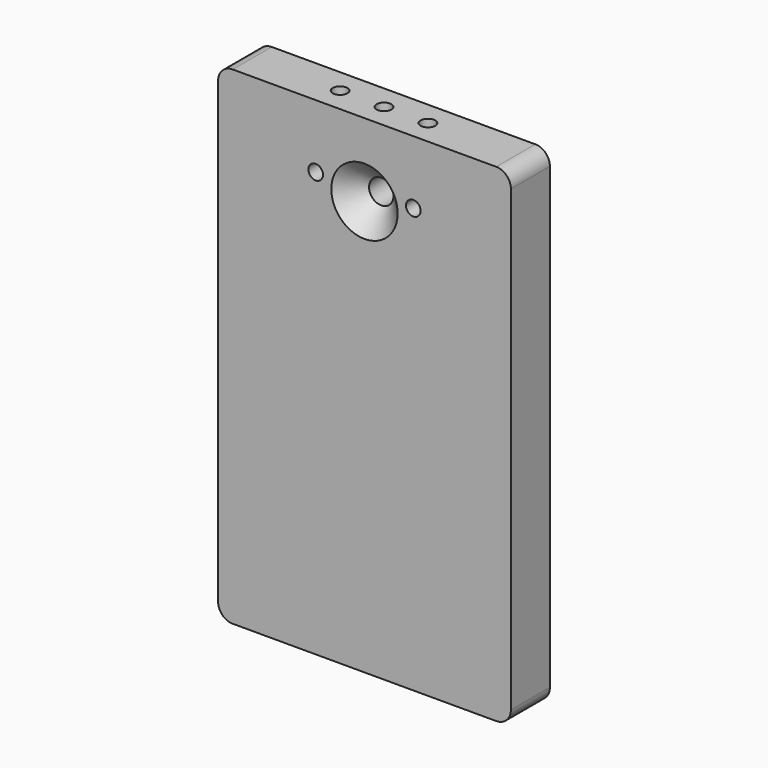
from build123d import *

# Parameters (mm, degrees)
F0_W     = 60
F0_H     = 100
F1_DEPTH = 10
F2_R     = 1.5
F3_DEPTH = 8
F4_R     = 1.5
F5_DEPTH = 10
F6_R     = 2.5
F7_DEPTH = 25
F8_SIZE  = 4.3
F9_R     = 3


with BuildPart() as f1:
    # F0 (on Front) → F1 (new body)
    with BuildSketch(Plane.XZ):
        Rectangle(F0_W, F0_H)
    extrude(amount=F1_DEPTH)

    # F2 (on face) → F3 (cut)
    with BuildSketch(Plane.XZ.offset(10)):
        with Locations((10, 37)):
            Circle(F2_R)
        with Locations((-10, 37)):
            Circle(F2_R)
    extrude(amount=-F3_DEPTH, mode=Mode.SUBTRACT)

    # F4 (on face) → F5 (cut)
    with BuildSketch(Plane.XY.offset(50)):
        with Locations((9, -5)):
            Circle(F4_R)
        with Locations((0, -5)):
            Circle(F4_R)
        with Locations((-9, -5)):
            Circle(F4_R)
    extrude(amount=-F5_DEPTH, mode=Mode.SUBTRACT)

    # F6 (on face) → F7 (cut)
    with BuildSketch(Plane(origin=(0, 0, 0), x_dir=(-1, 0, 0), z_dir=(0, 1, 0))):
        with Locations((0, 35)):
            Circle(F6_R)
    extrude(amount=-F7_DEPTH, mode=Mode.SUBTRACT)

    # F8
    f8_edges = [f1.edges().sort_by_distance(p)[0] for p in [
        (2.5, -10, 35),
    ]]
    chamfer(f8_edges, length=F8_SIZE)

    # F9
    f9_edges = [f1.edges().sort_by_distance(p)[0] for p in [
        (30, -5, -50),
        (-30, -5, -50),
        (-30, -5, 50),
        (30, -5, 50),
    ]]
    fillet(f9_edges, radius=F9_R)


solid = f1.part
